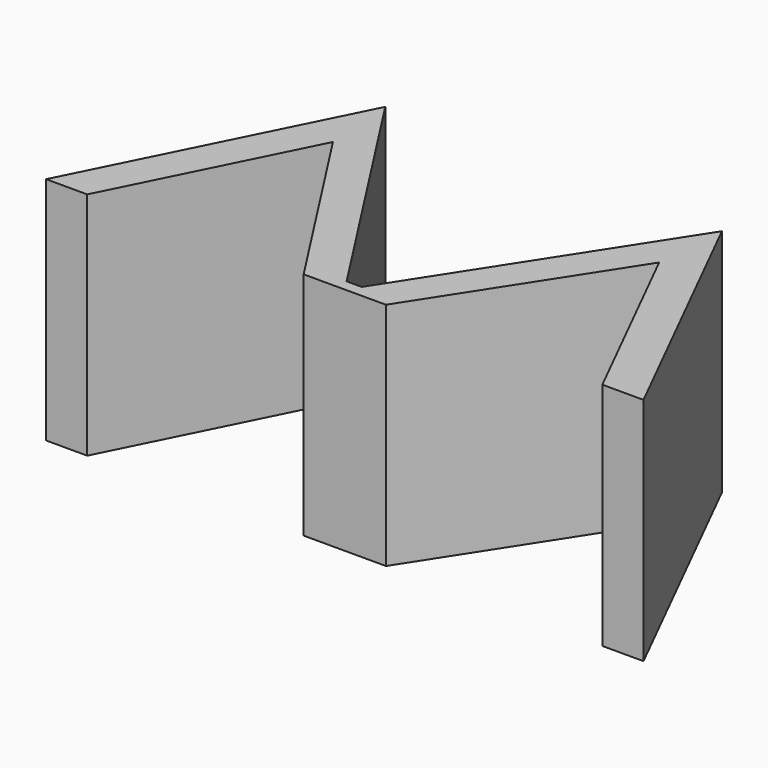
from build123d import *

# Parameters (mm, degrees)
F1_DEPTH = 25
F2_W     = 8.943856
F2_H     = 1.274483
F3_DEPTH = 25


with BuildPart() as f1:
    # F0 (on Top) → F1 (new body)
    with BuildSketch(Plane.XY):
        Polygon((-4.471928, 3.997871), (0, 3.997871), (-18.293965, 32.363827), (-32.462839, 3.997871), (-27.990839, 3.997871), (-17.725671, 24.548642), align=None)
        Polygon((18.293965, 32.363827), (0, 3.997871), (4.471928, 3.997871), (17.725671, 24.548642), (27.990839, 3.997871), (32.462839, 3.997871), align=None)
    extrude(amount=F1_DEPTH)

    # F2 (on face) → F3 (join)
    with BuildSketch(Plane.XY.offset(25)):
        with Locations((0, 4.635112)):
            Rectangle(F2_W, F2_H)
    extrude(amount=-F3_DEPTH)


solid = f1.part
